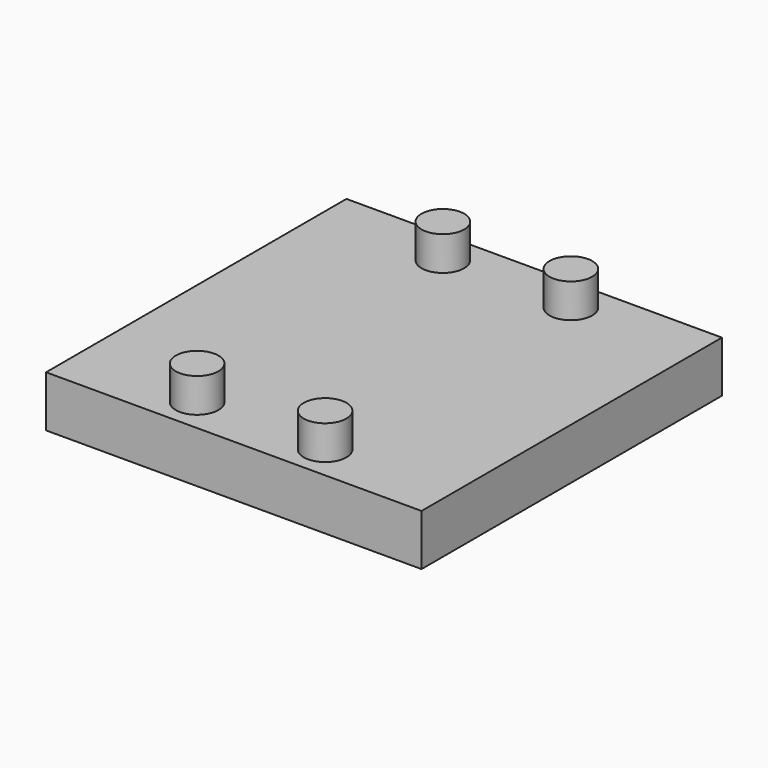
from build123d import *

# Parameters (mm, degrees)
BOX_W             = 44
BOX_H             = 44
BOX_DEPTH         = 6
CYLINDER_R        = 2.5
CYLINDER_DEPTH    = 10
CYLINDER001_R     = 2.5
CYLINDER001_DEPTH = 10
CYLINDER002_R     = 2.5
CYLINDER002_DEPTH = 10
CYLINDER003_R     = 2.5
CYLINDER003_DEPTH = 10


with BuildPart() as cube:
    # Box → Box (new body)
    with BuildSketch(Plane.XY):
        with Locations((22, 22)):
            Rectangle(BOX_W, BOX_H)
    extrude(amount=BOX_DEPTH)


with BuildPart() as cylinder:
    # Cylinder → Cylinder (new body)
    with BuildSketch(Plane(origin=(14.5, 4, 0), x_dir=(1, 0, 0), z_dir=(0, 0, 1))):
        Circle(CYLINDER_R)
    extrude(amount=CYLINDER_DEPTH)


with BuildPart() as cylinder001:
    # Cylinder001 → Cylinder001 (new body)
    with BuildSketch(Plane(origin=(29.5, 4, 0), x_dir=(1, 0, 0), z_dir=(0, 0, 1))):
        Circle(CYLINDER001_R)
    extrude(amount=CYLINDER001_DEPTH)


with BuildPart() as cylinder002:
    # Cylinder002 → Cylinder002 (new body)
    with BuildSketch(Plane(origin=(14.5, 40, 0), x_dir=(1, 0, 0), z_dir=(0, 0, 1))):
        Circle(CYLINDER002_R)
    extrude(amount=CYLINDER002_DEPTH)


with BuildPart() as cylinder003:
    # Cylinder003 → Cylinder003 (new body)
    with BuildSketch(Plane(origin=(29.5, 40, 0), x_dir=(1, 0, 0), z_dir=(0, 0, 1))):
        Circle(CYLINDER003_R)
    extrude(amount=CYLINDER003_DEPTH)


solid = Compound([cube.part, cylinder.part, cylinder001.part, cylinder002.part, cylinder003.part])
